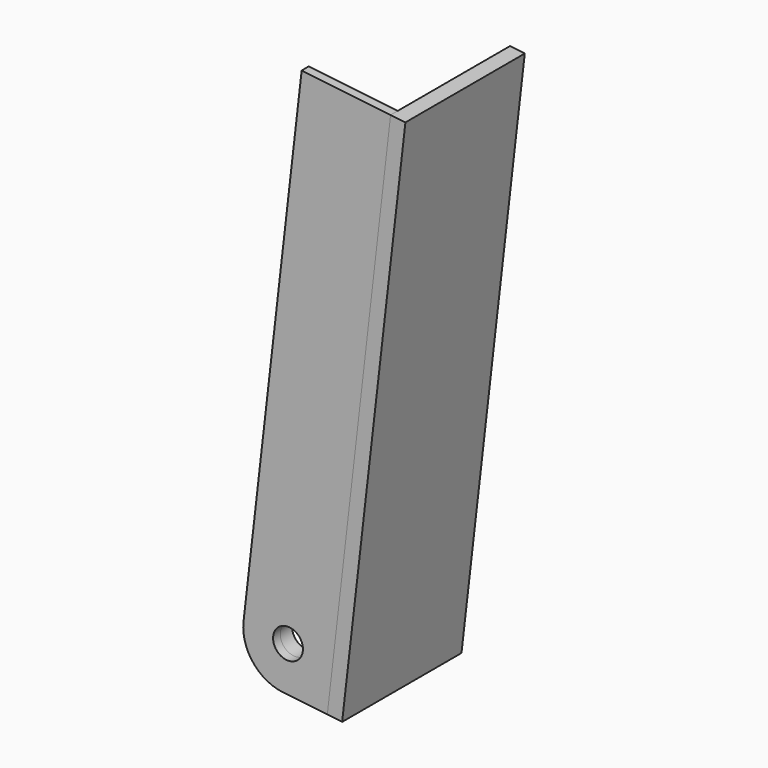
from build123d import *

# Parameters (mm, degrees)
F1_DEPTH = 50
F3_R     = 5
F4_DEPTH = 5
F5_DEPTH = 3


with BuildPart() as f1:
    # F0 (on Front) → F1 (new body)
    with BuildSketch(Plane.XZ):
        Polygon((86.1805300464, 183.2075325962), (81.2134853671, 183.7806531362), (60.0080253898, 0), (64.9750700692, -0.5731205399), align=None)
    extrude(amount=-F1_DEPTH)

    # F3 (on offset) → F4 (join)
    with BuildSketch(Plane.XZ.offset(-3)):
        with BuildLine():
            Line((45.1068913518, 1.7193616198), (60.0080253898, 0))
            Line((60.0080253898, 0), (63.4467486294, 29.8022680761))
            Line((63.4467486294, 29.8022680761), (48.5456145913, 31.5216296959))
            ThreePointArc((48.5456145913, 31.5216296959), (37.5053321271, 28.3729607019), (31.925118881, 18.3398568227))
            ThreePointArc((31.925118881, 18.3398568227), (35.0737879275, 7.2995748134), (45.1068913518, 1.7193616198))
        make_face()
        with Locations((46.8262529715, 16.6204956578)):
            Circle(F3_R, mode=Mode.SUBTRACT)
        with BuildLine():
            Line((45.1068913518, 1.7193616198), (60.0080253898, 0))
            Line((60.0080253898, 0), (63.4467486294, 29.8022680761))
            Line((63.4467486294, 29.8022680761), (48.5456145913, 31.5216296959))
            ThreePointArc((48.5456145913, 31.5216296959), (37.5053321271, 28.3729607019), (31.925118881, 18.3398568227))
            ThreePointArc((31.925118881, 18.3398568227), (35.0737879275, 7.2995748134), (45.1068913518, 1.7193616198))
        make_face()
        with Locations((46.8262529715, 16.6204956578)):
            Circle(F3_R, mode=Mode.SUBTRACT)
    extrude(amount=-F4_DEPTH)

    # F3 (on offset) → F5 (join)
    with BuildSketch(Plane.XZ.offset(-3)):
        with BuildLine():
            Line((45.1068913518, 1.7193616198), (60.0080253898, 0))
            Line((60.0080253898, 0), (63.4467486294, 29.8022680761))
            Line((63.4467486294, 29.8022680761), (48.5456145913, 31.5216296959))
            ThreePointArc((48.5456145913, 31.5216296959), (37.5053321271, 28.3729607019), (31.925118881, 18.3398568227))
            ThreePointArc((31.925118881, 18.3398568227), (35.0737879275, 7.2995748134), (45.1068913518, 1.7193616198))
        make_face()
        with Locations((46.8262529715, 16.6204956578)):
            Circle(F3_R, mode=Mode.SUBTRACT)
        with BuildLine():
            Line((48.5456145913, 31.5216296959), (63.4467486294, 29.8022680761))
            Line((63.4467486294, 29.8022680761), (81.2134853671, 183.7806531362))
            Line((81.2134853671, 183.7806531362), (51.411217291, 187.2193763757))
            Line((51.411217291, 187.2193763757), (31.925118881, 18.3398568227))
            ThreePointArc((31.925118881, 18.3398568227), (37.5053321271, 28.3729607019), (48.5456145913, 31.5216296959))
        make_face()
    extrude(amount=F5_DEPTH)


solid = f1.part
